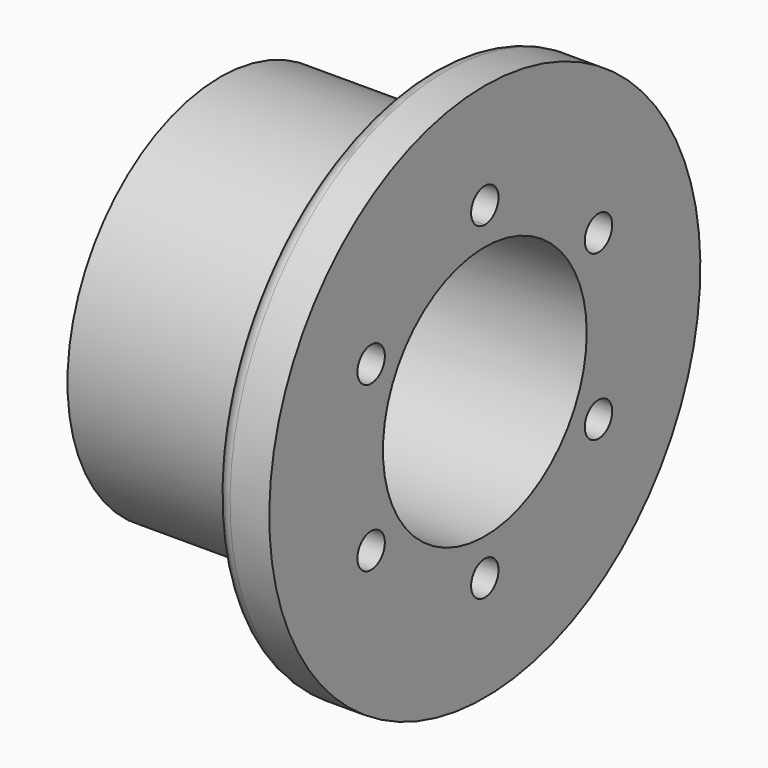
from build123d import *

# Parameters (mm, degrees)
F2_R     = 26
F3_DEPTH = 40
F4_R     = 24.5
F5_DEPTH = 5
F6_R     = 26
F7_DEPTH = 9
F8_R     = 3.5
F9_DEPTH = 54.001


with BuildPart() as f1:
    # F0 (on Front) → F1 (revolve)
    with BuildSketch(Plane.XZ):
        with BuildLine():
            Line((31, 53.175), (22.9837517073, 53.175))
            ThreePointArc((22.9837517073, 53.175), (20.3059838669, 51.7059262565), (20.1062244835, 48.658187019))
            Line((20.1062244835, 48.658187019), (25.4609225305, 37.175))
            Line((25.4609225305, 37.175), (-23, 37.175))
            Line((-23, 37.175), (-23, -1.8250067694))
            Line((-23, -1.8250067694), (31, -1.8250067694))
            Line((31, -1.8250067694), (31, 37.175))
            Line((31, 37.175), (31, 53.175))
        make_face()
    revolve(axis=Axis((4, 0, -1.8250067694), (-1, 0, 0)))

    # F2 (on face) → F3 (cut)
    with BuildSketch(Plane.YZ.offset(31)):
        with Locations((0, -1.8250067694)):
            Circle(F2_R)
    extrude(amount=-F3_DEPTH, mode=Mode.SUBTRACT)

    # F4 (on face) → F5 (cut)
    with BuildSketch(Plane.YZ.offset(-9)):
        with Locations((0, -1.8250067694)):
            Circle(F4_R)
    extrude(amount=-F5_DEPTH, mode=Mode.SUBTRACT)

    # F6 (on face) → F7 (cut)
    with BuildSketch(Plane(origin=(-23, 0, 0), x_dir=(0, -1, 0), z_dir=(-1, 0, 0))):
        with Locations((0, -1.8250067694)):
            Circle(F6_R)
    extrude(amount=-F7_DEPTH, mode=Mode.SUBTRACT)

    # F8 (on face) → F9 (cut, through all)
    with BuildSketch(Plane(origin=(-23, 0, 0), x_dir=(0, -1, 0), z_dir=(-1, 0, 0))):
        with Locations((-29.0118510268, 14.9249932306)):
            Circle(F8_R)
        with Locations((-29.0118510268, -18.5750067694)):
            Circle(F8_R)
        with Locations((0, -35.3250067694)):
            Circle(F8_R)
        with Locations((29.0118510268, -18.5750067694)):
            Circle(F8_R)
        with Locations((29.0118510268, 14.9249932306)):
            Circle(F8_R)
        with BuildLine():
            Line((0, 31.6749932306), (0, 35.1749932306))
            ThreePointArc((0, 35.1749932306), (-3.5, 31.6749932306), (0, 28.1749932306))
            Line((0, 28.1749932306), (0, 31.6749932306))
        make_face()
        with BuildLine():
            ThreePointArc((0, 28.1749932306), (2.4748737342, 29.2001194964), (3.5, 31.6749932306))
            ThreePointArc((3.5, 31.6749932306), (2.4748737342, 34.1498669647), (0, 35.1749932306))
            Line((0, 35.1749932306), (0, 31.6749932306))
            Line((0, 31.6749932306), (0, 28.1749932306))
        make_face()
    extrude(amount=-F9_DEPTH, mode=Mode.SUBTRACT)


solid = f1.part
